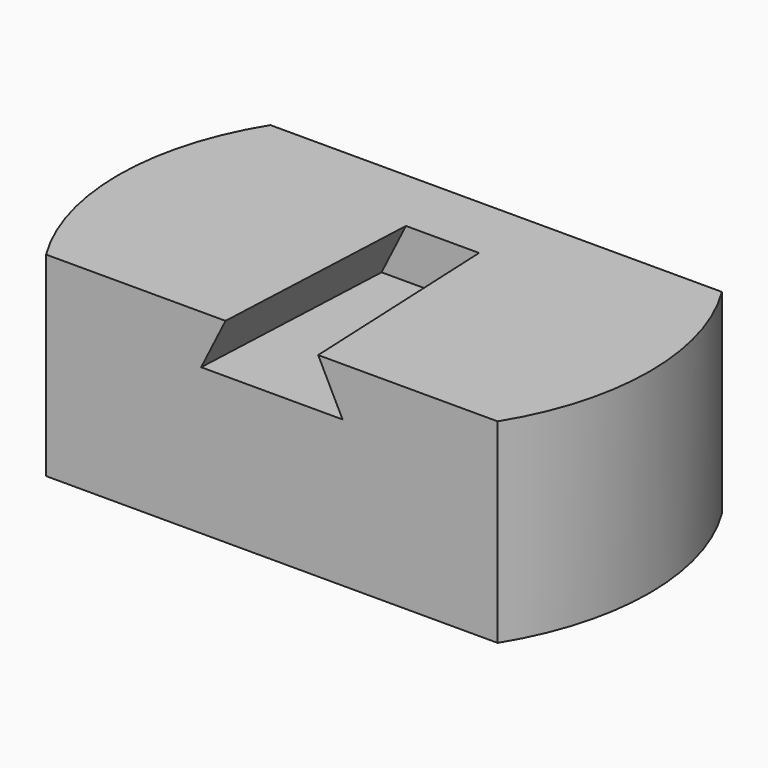
from build123d import *

# Parameters (mm, degrees)
F1_DEPTH = 8
F6_W     = 6.3
F6_H     = 3.3
F7_DEPTH = 11.9
F8_DEPTH = 7


with BuildPart() as f1:
    # F0 (on Top) → F1 (new body)
    with BuildSketch(Plane.XY):
        with BuildLine():
            Line((9.259995, 5.75), (8.785642, 5.75))
            Line((8.785642, 5.75), (-8.785642, 5.75))
            Line((-8.785642, 5.75), (-9.259995, 5.75))
            ThreePointArc((-9.259995, 5.75), (-10.9, 0), (-9.259995, -5.75))
            Line((-9.259995, -5.75), (-8.785642, -5.75))
            Line((-8.785642, -5.75), (8.785642, -5.75))
            Line((8.785642, -5.75), (9.259995, -5.75))
            ThreePointArc((9.259995, -5.75), (10.9, 0), (9.259995, 5.75))
        make_face()
    extrude(amount=-F1_DEPTH)

    # F2 (on face) → F5 section 0
    with BuildSketch(Plane.XZ.offset(5.75)):
        Polygon((1.9, 0), (-1.9, 0), (-2.9, -2), (2.9, -2), align=None)
    # F4 (on offset) → F5 section 1
    with BuildSketch(Plane.XZ.offset(-3)):
        Polygon((2.5, -2), (1.5, 0), (-1.5, 0), (-2.5, -2), align=None)
    loft(mode=Mode.SUBTRACT)

    # F6 (on Right) → F7 (cut)
    with BuildSketch(Plane.YZ):
        with Locations((0, -5.15)):
            Rectangle(F6_W, F6_H)
    extrude(amount=-F7_DEPTH, mode=Mode.SUBTRACT)

    # F6 (on Right) → F8 (cut)
    with BuildSketch(Plane.YZ):
        with Locations((0, -5.15)):
            Rectangle(F6_W, F6_H)
    extrude(amount=F8_DEPTH, mode=Mode.SUBTRACT)


solid = f1.part
